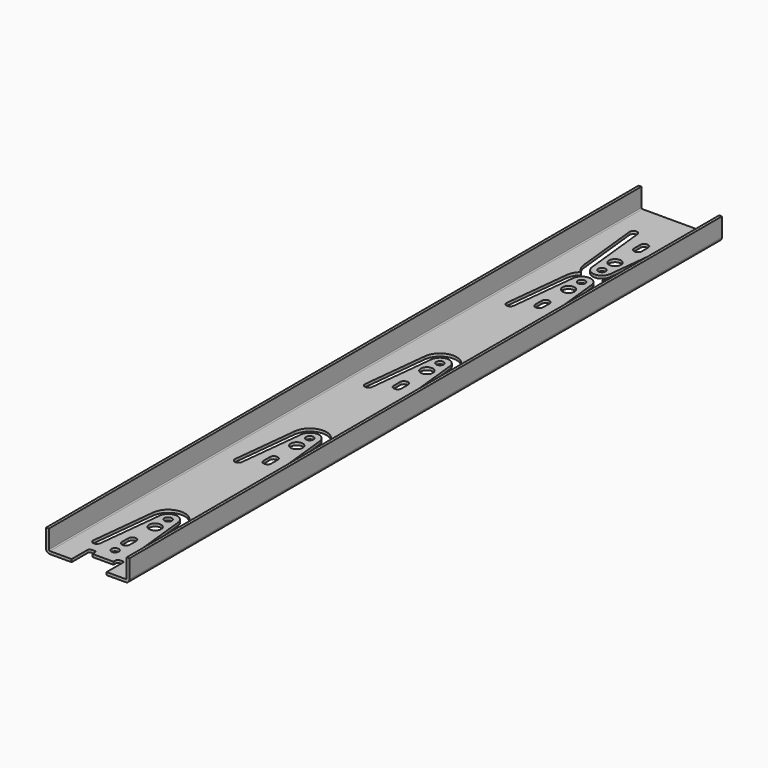
from build123d import *

# Parameters (mm, degrees)
F1_DEPTH = 200
F2_R     = 2
F3_DEPTH = 18.0006673893
F4_R     = 2
F4_R_2   = 3.25
F5_DEPTH = 25


with BuildPart() as f1:
    # F0 (on Front) → F1 (new body, symmetric)
    with BuildSketch(Plane.XZ):
        with BuildLine():
            Line((-46.5215308082, 17.9996673893), (-48.0148638964, 17.9996673893))
            Line((-48.0148638964, 17.9996673893), (-48.0148638964, 7.9996673893))
            ThreePointArc((-48.0148638964, 7.9996673893), (-47.4290774588, 6.5854538269), (-46.0148638964, 5.9996673893))
            Line((-46.0148638964, 5.9996673893), (-5.0148638964, 5.9996673893))
            ThreePointArc((-5.0148638964, 5.9996673893), (-3.600650334, 6.5854538269), (-3.0148638964, 7.9996673893))
            Line((-3.0148638964, 7.9996673893), (-3.0148638964, 17.9996673893))
            Line((-3.0148638964, 17.9996673893), (-4.5081969846, 17.9996673893))
            Line((-4.5081969846, 17.9996673893), (-4.5081969846, 7.9996673893))
            ThreePointArc((-4.5081969846, 7.9996673893), (-4.6565962873, 7.6413997802), (-5.0148638964, 7.4930004776))
            Line((-5.0148638964, 7.4930004776), (-46.0148638964, 7.4930004776))
            ThreePointArc((-46.0148638964, 7.4930004776), (-46.3731315055, 7.6413997802), (-46.5215308082, 7.9996673893))
            Line((-46.5215308082, 7.9996673893), (-46.5215308082, 17.9996673893))
        make_face()
    extrude(amount=F1_DEPTH, both=True)

    # F2 (on Top) → F3 (cut, through all)
    with BuildSketch(Plane.XY):
        with BuildLine():
            Line((-34.2383879185, -189.039892745), (-34.2383879185, -200.4795311213))
            Line((-34.2383879185, -200.4795311213), (-15.3136896849, -200.4795311213))
            Line((-15.3136896849, -200.4795311213), (-15.3136896849, -189.039892745))
            ThreePointArc((-15.3136896849, -189.039892745), (-15.6065829037, -188.3327859638), (-16.3136896849, -188.039892745))
            Line((-16.3136896849, -188.039892745), (-17.9719963819, -188.039892745))
            ThreePointArc((-17.9719963819, -188.039892745), (-18.6791031631, -188.3327859638), (-18.9719963819, -189.039892745))
            Line((-18.9719963819, -189.039892745), (-18.9719963819, -190.8018738031))
            Line((-18.9719963819, -190.8018738031), (-30.4109957069, -190.8018738031))
            Line((-30.4109957069, -190.8018738031), (-30.4109957069, -189.039892745))
            ThreePointArc((-30.4109957069, -189.039892745), (-30.7038889257, -188.3327859638), (-31.4109957069, -188.039892745))
            Line((-31.4109957069, -188.039892745), (-33.2383879185, -188.039892745))
            ThreePointArc((-33.2383879185, -188.039892745), (-33.9454946997, -188.3327859638), (-34.2383879185, -189.039892745))
        make_face()
        with Locations((-24.9614326939, -182.2309328079)):
            Circle(F2_R)
    extrude(amount=F3_DEPTH, mode=Mode.SUBTRACT)

    # F4 (on Top) → F5 (cut)
    with BuildSketch(Plane.XY):
        with BuildLine():
            ThreePointArc((-26.2534770622, 169.6344333588), (-25.6676906246, 168.2202197964), (-24.2534770622, 167.6344333588))
            Line((-24.2534770622, 167.6344333588), (-24.0468047514, 167.6344333588))
            ThreePointArc((-24.0468047514, 167.6344333588), (-22.632591189, 168.2202197964), (-22.0468047514, 169.6344333588))
            Line((-22.0468047514, 169.6344333588), (-22.0468047514, 174.0477779805))
            ThreePointArc((-22.0468047514, 174.0477779805), (-22.632591189, 175.4619915428), (-24.0468047514, 176.0477779805))
            Line((-24.0468047514, 176.0477779805), (-24.2534770622, 176.0477779805))
            ThreePointArc((-24.2534770622, 176.0477779805), (-25.6676906246, 175.4619915428), (-26.2534770622, 174.0477779805))
            Line((-26.2534770622, 174.0477779805), (-26.2534770622, 169.6344333588))
        make_face()
        with BuildLine():
            Line((-37.2235153974, 180.2821485832), (-33.4157298491, 144.8620035359))
            ThreePointArc((-33.4157298491, 144.8620035359), (-32.9844610819, 146.3307284934), (-31.6409626348, 147.0643208007))
            ThreePointArc((-31.6409626348, 147.0643208007), (-30.1722376773, 146.6330520334), (-29.43864537, 145.2895535864))
            Line((-29.43864537, 145.2895535864), (-33.2464309183, 180.7096986337))
            ThreePointArc((-33.2464309183, 180.7096986337), (-35.4487481831, 182.484465848), (-37.2235153974, 180.2821485832))
        make_face()
        with BuildLine():
            ThreePointArc((-33.4157298491, 144.8620035359), (-32.390620077, 141.5554039286), (-30.193204578, 138.880368203))
            ThreePointArc((-30.193204578, 138.880368203), (-29.3404601783, 139.5156525154), (-28.4187386584, 140.0459247177))
            ThreePointArc((-28.4187386584, 140.0459247177), (-29.8997966199, 141.4094844572), (-30.9315277438, 143.1381714551))
            ThreePointArc((-30.9315277438, 143.1381714551), (-32.5673953565, 143.4326333169), (-33.4157298491, 144.8620035359))
        make_face()
        with BuildLine():
            ThreePointArc((-30.9315277438, 143.1381714551), (-29.8997966199, 141.4094844572), (-28.4187386584, 140.0459247177))
            ThreePointArc((-28.4187386584, 140.0459247177), (-26.9880662325, 140.6129657347), (-25.4817038524, 140.9279760279))
            ThreePointArc((-25.4817038524, 140.9279760279), (-28.1704234935, 142.4644077477), (-29.43864537, 145.2895535864))
            ThreePointArc((-29.43864537, 145.2895535864), (-29.7840423653, 143.9355708142), (-30.9315277438, 143.1381714551))
        make_face()
        with BuildLine():
            ThreePointArc((-31.4271876096, 145.0757785612), (-31.2489146423, 144.0891816195), (-30.9315277438, 143.1381714551))
            ThreePointArc((-30.9315277438, 143.1381714551), (-29.7840423653, 143.9355708142), (-29.43864537, 145.2895535864))
            ThreePointArc((-29.43864537, 145.2895535864), (-30.1722376773, 146.6330520334), (-31.6409626348, 147.0643208007))
            Line((-31.6409626348, 147.0643208007), (-31.4271876096, 145.0757785612))
        make_face()
        with BuildLine():
            ThreePointArc((-31.6409626348, 147.0643208007), (-32.9844610819, 146.3307284934), (-33.4157298491, 144.8620035359))
            ThreePointArc((-33.4157298491, 144.8620035359), (-32.5673953565, 143.4326333169), (-30.9315277438, 143.1381714551))
            ThreePointArc((-30.9315277438, 143.1381714551), (-31.2489146423, 144.0891816195), (-31.4271876096, 145.0757785612))
            Line((-31.4271876096, 145.0757785612), (-31.6409626348, 147.0643208007))
        make_face()
        with Locations((-24.4672897711, 145.8239911496)):
            Circle(F4_R)
        with BuildLine():
            ThreePointArc((-17.2936169073, 147.0643208007), (-18.7623418648, 146.6330520334), (-19.4959341721, 145.2895535864))
            ThreePointArc((-19.4959341721, 145.2895535864), (-19.1505371768, 143.9355708142), (-18.0030517983, 143.1381714551))
            ThreePointArc((-18.0030517983, 143.1381714551), (-17.6856648998, 144.0891816195), (-17.5073919325, 145.0757785612))
            Line((-17.5073919325, 145.0757785612), (-17.2936169073, 147.0643208007))
        make_face()
        with BuildLine():
            ThreePointArc((-18.0030517983, 143.1381714551), (-16.3671841856, 143.4326333169), (-15.518849693, 144.8620035359))
            ThreePointArc((-15.518849693, 144.8620035359), (-15.9501184603, 146.3307284934), (-17.2936169073, 147.0643208007))
            Line((-17.2936169073, 147.0643208007), (-17.5073919325, 145.0757785612))
            ThreePointArc((-17.5073919325, 145.0757785612), (-17.6856648998, 144.0891816195), (-18.0030517983, 143.1381714551))
        make_face()
        with BuildLine():
            ThreePointArc((-17.2936169073, 147.0643208007), (-15.9501184603, 146.3307284934), (-15.518849693, 144.8620035359))
            Line((-15.518849693, 144.8620035359), (-11.7110641447, 180.2821485832))
            ThreePointArc((-11.7110641447, 180.2821485832), (-13.485831359, 182.484465848), (-15.6881486238, 180.7096986337))
            Line((-15.6881486238, 180.7096986337), (-19.4959341721, 145.2895535864))
            ThreePointArc((-19.4959341721, 145.2895535864), (-18.7623418648, 146.6330520334), (-17.2936169073, 147.0643208007))
        make_face()
        with Locations((-24.4251641884, 154.6007899939)):
            Circle(F4_R_2)
        with BuildLine():
            ThreePointArc((-19.4959341721, 145.2895535864), (-20.7477104181, 142.4826247468), (-23.4048617705, 140.9381701598))
            ThreePointArc((-23.4048617705, 140.9381701598), (-21.8954796075, 140.6379625799), (-20.4593096372, 140.0849933933))
            ThreePointArc((-20.4593096372, 140.0849933933), (-19.0131801198, 141.4362026505), (-18.0030517983, 143.1381714551))
            ThreePointArc((-18.0030517983, 143.1381714551), (-19.1505371768, 143.9355708142), (-19.4959341721, 145.2895535864))
        make_face()
        with BuildLine():
            ThreePointArc((-20.4593096372, 140.0849933933), (-19.5324269979, 139.5637950223), (-18.673487281, 138.9369124723))
            ThreePointArc((-18.673487281, 138.9369124723), (-16.5231029019, 141.5943463669), (-15.518849693, 144.8620035359))
            ThreePointArc((-15.518849693, 144.8620035359), (-16.3671841856, 143.4326333169), (-18.0030517983, 143.1381714551))
            ThreePointArc((-18.0030517983, 143.1381714551), (-19.0131801198, 141.4362026505), (-20.4593096372, 140.0849933933))
        make_face()
        with BuildLine():
            ThreePointArc((-25.4817038524, 140.9279760279), (-26.9880662325, 140.6129657347), (-28.4187386584, 140.0459247177))
            ThreePointArc((-28.4187386584, 140.0459247177), (-27.0328495421, 139.3110883358), (-25.5181236085, 138.9033157312))
            ThreePointArc((-25.5181236085, 138.9033157312), (-24.4337610142, 138.9932052013), (-23.3485682505, 138.9139649441))
            ThreePointArc((-23.3485682505, 138.9139649441), (-21.8379182928, 139.3365875372), (-20.4593096372, 140.0849933933))
            ThreePointArc((-20.4593096372, 140.0849933933), (-21.8954796075, 140.6379625799), (-23.4048617705, 140.9381701598))
            ThreePointArc((-23.4048617705, 140.9381701598), (-24.4427476809, 140.8240513813), (-25.4817038524, 140.9279760279))
        make_face()
        with BuildLine():
            ThreePointArc((-28.4187386584, 140.0459247177), (-29.3404601783, 139.5156525154), (-30.193204578, 138.880368203))
            ThreePointArc((-30.193204578, 138.880368203), (-29.3342648611, 138.253485653), (-28.4073822218, 137.7322872821))
            ThreePointArc((-28.4073822218, 137.7322872821), (-27.0287735662, 138.4806931381), (-25.5181236085, 138.9033157312))
            ThreePointArc((-25.5181236085, 138.9033157312), (-27.0328495421, 139.3110883358), (-28.4187386584, 140.0459247177))
        make_face()
        with BuildLine():
            ThreePointArc((-28.4073822218, 137.7322872821), (-26.9712122515, 137.1793180955), (-25.4618300885, 136.8791105155))
            ThreePointArc((-25.4618300885, 136.8791105155), (-24.4239441781, 136.993229294), (-23.3849880066, 136.8893046475))
            ThreePointArc((-23.3849880066, 136.8893046475), (-21.8786256265, 137.2043149406), (-20.4479532006, 137.7713559577))
            ThreePointArc((-20.4479532006, 137.7713559577), (-21.8338423169, 138.5061923396), (-23.3485682505, 138.9139649441))
            ThreePointArc((-23.3485682505, 138.9139649441), (-24.4329308448, 138.8240754741), (-25.5181236085, 138.9033157312))
            ThreePointArc((-25.5181236085, 138.9033157312), (-27.0287735662, 138.4806931381), (-28.4073822218, 137.7322872821))
        make_face()
        with BuildLine():
            ThreePointArc((-23.3485682505, 138.9139649441), (-21.8338423169, 138.5061923396), (-20.4479532006, 137.7713559577))
            ThreePointArc((-20.4479532006, 137.7713559577), (-19.5262316807, 138.3016281599), (-18.673487281, 138.9369124723))
            ThreePointArc((-18.673487281, 138.9369124723), (-19.5324269979, 139.5637950223), (-20.4593096372, 140.0849933933))
            ThreePointArc((-20.4593096372, 140.0849933933), (-21.8379182928, 139.3365875372), (-23.3485682505, 138.9139649441))
        make_face()
        with BuildLine():
            ThreePointArc((-30.8636400607, 134.6791092203), (-29.7161546822, 133.8817098612), (-29.3707576869, 132.5277270889))
            ThreePointArc((-29.3707576869, 132.5277270889), (-28.1189814409, 135.3346559285), (-25.4618300885, 136.8791105155))
            ThreePointArc((-25.4618300885, 136.8791105155), (-26.9712122515, 137.1793180955), (-28.4073822218, 137.7322872821))
            ThreePointArc((-28.4073822218, 137.7322872821), (-29.8535117392, 136.3810780248), (-30.8636400607, 134.6791092203))
        make_face()
        with BuildLine():
            ThreePointArc((-30.193204578, 138.880368203), (-32.3435889571, 136.2229343085), (-33.347842166, 132.9552771395))
            ThreePointArc((-33.347842166, 132.9552771395), (-32.4995076734, 134.3846473585), (-30.8636400607, 134.6791092203))
            ThreePointArc((-30.8636400607, 134.6791092203), (-29.8535117392, 136.3810780248), (-28.4073822218, 137.7322872821))
            ThreePointArc((-28.4073822218, 137.7322872821), (-29.3342648611, 138.253485653), (-30.193204578, 138.880368203))
        make_face()
        with BuildLine():
            ThreePointArc((-20.4479532006, 137.7713559577), (-21.8786256265, 137.2043149406), (-23.3849880066, 136.8893046475))
            ThreePointArc((-23.3849880066, 136.8893046475), (-20.6962683655, 135.3528729276), (-19.428046489, 132.5277270889))
            ThreePointArc((-19.428046489, 132.5277270889), (-19.0826494937, 133.8817098612), (-17.9351641151, 134.6791092203))
            ThreePointArc((-17.9351641151, 134.6791092203), (-18.9668952391, 136.4077962182), (-20.4479532006, 137.7713559577))
        make_face()
        with BuildLine():
            ThreePointArc((-18.673487281, 138.9369124723), (-19.5262316807, 138.3016281599), (-20.4479532006, 137.7713559577))
            ThreePointArc((-20.4479532006, 137.7713559577), (-18.9668952391, 136.4077962182), (-17.9351641151, 134.6791092203))
            ThreePointArc((-17.9351641151, 134.6791092203), (-16.2992965024, 134.3846473585), (-15.4509620098, 132.9552771395))
            ThreePointArc((-15.4509620098, 132.9552771395), (-16.476071782, 136.2618767468), (-18.673487281, 138.9369124723))
        make_face()
        with BuildLine():
            ThreePointArc((-23.3485682505, 138.9139649441), (-24.4337610142, 138.9932052013), (-25.5181236085, 138.9033157312))
            ThreePointArc((-25.5181236085, 138.9033157312), (-24.4329308448, 138.8240754741), (-23.3485682505, 138.9139649441))
        make_face()
        with BuildLine():
            ThreePointArc((-17.9351641151, 134.6791092203), (-19.0826494937, 133.8817098612), (-19.428046489, 132.5277270889))
            ThreePointArc((-19.428046489, 132.5277270889), (-18.6944541817, 131.1842286419), (-17.2257292242, 130.7529598746))
            Line((-17.2257292242, 130.7529598746), (-17.4395042494, 132.7415021142))
            ThreePointArc((-17.4395042494, 132.7415021142), (-17.6177772167, 133.7280990559), (-17.9351641151, 134.6791092203))
        make_face()
        with BuildLine():
            Line((-17.4395042494, 132.7415021142), (-17.2257292242, 130.7529598746))
            ThreePointArc((-17.2257292242, 130.7529598746), (-15.8822307771, 131.4865521819), (-15.4509620098, 132.9552771395))
            ThreePointArc((-15.4509620098, 132.9552771395), (-16.2992965024, 134.3846473585), (-17.9351641151, 134.6791092203))
            ThreePointArc((-17.9351641151, 134.6791092203), (-17.6177772167, 133.7280990559), (-17.4395042494, 132.7415021142))
        make_face()
        with BuildLine():
            ThreePointArc((-17.2257292242, 130.7529598746), (-18.6944541817, 131.1842286419), (-19.428046489, 132.5277270889))
            Line((-19.428046489, 132.5277270889), (-15.6202609407, 97.1075820417))
            ThreePointArc((-15.6202609407, 97.1075820417), (-13.4179436759, 95.3328148274), (-11.6431764615, 97.5351320922))
            Line((-11.6431764615, 97.5351320922), (-15.4509620098, 132.9552771395))
            ThreePointArc((-15.4509620098, 132.9552771395), (-15.8822307771, 131.4865521819), (-17.2257292242, 130.7529598746))
        make_face()
        with Locations((-24.4415276706, 123.2164906815)):
            Circle(F4_R_2)
        with Locations((-24.3994020879, 131.9932895258)):
            Circle(F4_R)
        with BuildLine():
            ThreePointArc((-33.347842166, 132.9552771395), (-32.9165733987, 131.4865521819), (-31.5730749517, 130.7529598746))
            Line((-31.5730749517, 130.7529598746), (-31.3592999264, 132.7415021142))
            ThreePointArc((-31.3592999264, 132.7415021142), (-31.1810269592, 133.7280990559), (-30.8636400607, 134.6791092203))
            ThreePointArc((-30.8636400607, 134.6791092203), (-32.4995076734, 134.3846473585), (-33.347842166, 132.9552771395))
        make_face()
        with BuildLine():
            Line((-31.3592999264, 132.7415021142), (-31.5730749517, 130.7529598746))
            ThreePointArc((-31.5730749517, 130.7529598746), (-30.1043499942, 131.1842286419), (-29.3707576869, 132.5277270889))
            ThreePointArc((-29.3707576869, 132.5277270889), (-29.7161546822, 133.8817098612), (-30.8636400607, 134.6791092203))
            ThreePointArc((-30.8636400607, 134.6791092203), (-31.1810269592, 133.7280990559), (-31.3592999264, 132.7415021142))
        make_face()
        with BuildLine():
            ThreePointArc((-29.3707576869, 132.5277270889), (-30.1043499942, 131.1842286419), (-31.5730749517, 130.7529598746))
            ThreePointArc((-31.5730749517, 130.7529598746), (-32.9165733987, 131.4865521819), (-33.347842166, 132.9552771395))
            Line((-33.347842166, 132.9552771395), (-37.1556277143, 97.5351320922))
            ThreePointArc((-37.1556277143, 97.5351320922), (-35.3808605, 95.3328148274), (-33.1785432352, 97.1075820417))
            Line((-33.1785432352, 97.1075820417), (-29.3707576869, 132.5277270889))
        make_face()
        with BuildLine():
            ThreePointArc((-22.6132147968, 108.1828473166), (-23.1990012344, 109.5970608789), (-24.6132147968, 110.1828473166))
            Line((-24.6132147968, 110.1828473166), (-24.8198871076, 110.1828473166))
            ThreePointArc((-24.8198871076, 110.1828473166), (-26.23410067, 109.5970608789), (-26.8198871076, 108.1828473166))
            Line((-26.8198871076, 108.1828473166), (-26.8198871076, 103.7695026949))
            ThreePointArc((-26.8198871076, 103.7695026949), (-26.23410067, 102.3552891325), (-24.8198871076, 101.7695026949))
            Line((-24.8198871076, 101.7695026949), (-24.6132147968, 101.7695026949))
            ThreePointArc((-24.6132147968, 101.7695026949), (-23.1990012344, 102.3552891325), (-22.6132147968, 103.7695026949))
            Line((-22.6132147968, 103.7695026949), (-22.6132147968, 108.1828473166))
        make_face()
        with BuildLine():
            ThreePointArc((-29.6614746409, 37.2760824567), (-30.3950669482, 35.9325840097), (-31.8637919058, 35.5013152424))
            ThreePointArc((-31.8637919058, 35.5013152424), (-33.2072903528, 36.2349075497), (-33.6385591201, 37.7036325072))
            Line((-33.6385591201, 37.7036325072), (-37.4463446684, 2.28348746))
            ThreePointArc((-37.4463446684, 2.28348746), (-35.6715774541, 0.0811701951), (-33.4692601892, 1.8559374095))
            Line((-33.4692601892, 1.8559374095), (-29.6614746409, 37.2760824567))
        make_face()
        with BuildLine():
            ThreePointArc((-22.9039317509, 12.9312026843), (-23.4897181885, 14.3454162467), (-24.9039317509, 14.9312026843))
            Line((-24.9039317509, 14.9312026843), (-25.1106040617, 14.9312026843))
            ThreePointArc((-25.1106040617, 14.9312026843), (-26.5248176241, 14.3454162467), (-27.1106040617, 12.9312026843))
            Line((-27.1106040617, 12.9312026843), (-27.1106040617, 8.5178580627))
            ThreePointArc((-27.1106040617, 8.5178580627), (-26.5248176241, 7.1036445003), (-25.1106040617, 6.5178580627))
            Line((-25.1106040617, 6.5178580627), (-24.9039317509, 6.5178580627))
            ThreePointArc((-24.9039317509, 6.5178580627), (-23.4897181885, 7.1036445003), (-22.9039317509, 8.5178580627))
            Line((-22.9039317509, 8.5178580627), (-22.9039317509, 12.9312026843))
        make_face()
        with BuildLine():
            ThreePointArc((-17.5164461782, 35.5013152424), (-18.9851711358, 35.9325840097), (-19.7187634431, 37.2760824567))
            Line((-19.7187634431, 37.2760824567), (-15.9109778948, 1.8559374095))
            ThreePointArc((-15.9109778948, 1.8559374095), (-13.7086606299, 0.0811701951), (-11.9338934156, 2.28348746))
            Line((-11.9338934156, 2.28348746), (-15.7416789639, 37.7036325072))
            ThreePointArc((-15.7416789639, 37.7036325072), (-16.1729477312, 36.2349075497), (-17.5164461782, 35.5013152424))
        make_face()
        with Locations((-24.7322446247, 27.9648460492)):
            Circle(F4_R_2)
        with Locations((-24.690119042, 36.7416448936)):
            Circle(F4_R)
        with BuildLine():
            ThreePointArc((-31.1543570148, 39.4274645881), (-30.0068716362, 38.6300652289), (-29.6614746409, 37.2760824567))
            ThreePointArc((-29.6614746409, 37.2760824567), (-24.690119042, 41.7416448936), (-19.7187634431, 37.2760824567))
            ThreePointArc((-19.7187634431, 37.2760824567), (-19.3733664477, 38.6300652289), (-18.2258810692, 39.4274645881))
            ThreePointArc((-18.2258810692, 39.4274645881), (-24.690119042, 43.7416448936), (-31.1543570148, 39.4274645881))
        make_face()
        with BuildLine():
            ThreePointArc((-15.7416789639, 37.7036325072), (-24.690119042, 45.7416448936), (-33.6385591201, 37.7036325072))
            ThreePointArc((-33.6385591201, 37.7036325072), (-32.7902246275, 39.1330027262), (-31.1543570148, 39.4274645881))
            ThreePointArc((-31.1543570148, 39.4274645881), (-24.690119042, 43.7416448936), (-18.2258810692, 39.4274645881))
            ThreePointArc((-18.2258810692, 39.4274645881), (-16.5900134565, 39.1330027262), (-15.7416789639, 37.7036325072))
        make_face()
        with BuildLine():
            ThreePointArc((-18.2258810692, 39.4274645881), (-19.3733664477, 38.6300652289), (-19.7187634431, 37.2760824567))
            ThreePointArc((-19.7187634431, 37.2760824567), (-18.9851711358, 35.9325840097), (-17.5164461782, 35.5013152424))
            Line((-17.5164461782, 35.5013152424), (-17.7302212035, 37.489857482))
            ThreePointArc((-17.7302212035, 37.489857482), (-17.9084941707, 38.4764544236), (-18.2258810692, 39.4274645881))
        make_face()
        with BuildLine():
            ThreePointArc((-17.5164461782, 35.5013152424), (-16.1729477312, 36.2349075497), (-15.7416789639, 37.7036325072))
            ThreePointArc((-15.7416789639, 37.7036325072), (-16.5900134565, 39.1330027262), (-18.2258810692, 39.4274645881))
            ThreePointArc((-18.2258810692, 39.4274645881), (-17.9084941707, 38.4764544236), (-17.7302212035, 37.489857482))
            Line((-17.7302212035, 37.489857482), (-17.5164461782, 35.5013152424))
        make_face()
        with BuildLine():
            ThreePointArc((-33.6385591201, 37.7036325072), (-33.2072903528, 36.2349075497), (-31.8637919058, 35.5013152424))
            Line((-31.8637919058, 35.5013152424), (-31.6500168805, 37.489857482))
            ThreePointArc((-31.6500168805, 37.489857482), (-31.4717439133, 38.4764544236), (-31.1543570148, 39.4274645881))
            ThreePointArc((-31.1543570148, 39.4274645881), (-32.7902246275, 39.1330027262), (-33.6385591201, 37.7036325072))
        make_face()
        with BuildLine():
            Line((-31.6500168805, 37.489857482), (-31.8637919058, 35.5013152424))
            ThreePointArc((-31.8637919058, 35.5013152424), (-30.3950669482, 35.9325840097), (-29.6614746409, 37.2760824567))
            ThreePointArc((-29.6614746409, 37.2760824567), (-30.0068716362, 38.6300652289), (-31.1543570148, 39.4274645881))
            ThreePointArc((-31.1543570148, 39.4274645881), (-31.4717439133, 38.4764544236), (-31.6500168805, 37.489857482))
        make_face()
        with BuildLine():
            ThreePointArc((-29.7180183985, -50.4993391523), (-30.4516107058, -51.8428375993), (-31.9203356633, -52.2741063666))
            ThreePointArc((-31.9203356633, -52.2741063666), (-33.2638341103, -51.5405140593), (-33.6951028776, -50.0717891018))
            Line((-33.6951028776, -50.0717891018), (-37.5028884259, -85.491934149))
            ThreePointArc((-37.5028884259, -85.491934149), (-35.7281212116, -87.6942514139), (-33.5258039467, -85.9194841995))
            Line((-33.5258039467, -85.9194841995), (-29.7180183985, -50.4993391523))
        make_face()
        with BuildLine():
            ThreePointArc((-17.5729899357, -52.2741063666), (-19.0417148933, -51.8428375993), (-19.7753072006, -50.4993391523))
            Line((-19.7753072006, -50.4993391523), (-15.9675216523, -85.9194841995))
            ThreePointArc((-15.9675216523, -85.9194841995), (-13.7652043875, -87.6942514139), (-11.9904371731, -85.491934149))
            Line((-11.9904371731, -85.491934149), (-15.7982227214, -50.0717891018))
            ThreePointArc((-15.7982227214, -50.0717891018), (-16.2294914887, -51.5405140593), (-17.5729899357, -52.2741063666))
        make_face()
        with BuildLine():
            ThreePointArc((-22.9604755084, -74.8442189246), (-23.546261946, -73.4300053623), (-24.9604755084, -72.8442189246))
            Line((-24.9604755084, -72.8442189246), (-25.1671478192, -72.8442189246))
            ThreePointArc((-25.1671478192, -72.8442189246), (-26.5813613816, -73.4300053623), (-27.1671478192, -74.8442189246))
            Line((-27.1671478192, -74.8442189246), (-27.1671478192, -79.2575635463))
            ThreePointArc((-27.1671478192, -79.2575635463), (-26.5813613816, -80.6717771087), (-25.1671478192, -81.2575635463))
            Line((-25.1671478192, -81.2575635463), (-24.9604755084, -81.2575635463))
            ThreePointArc((-24.9604755084, -81.2575635463), (-23.546261946, -80.6717771087), (-22.9604755084, -79.2575635463))
            Line((-22.9604755084, -79.2575635463), (-22.9604755084, -74.8442189246))
        make_face()
        with Locations((-24.7887883822, -59.8105755597)):
            Circle(F4_R_2)
        with Locations((-24.7466627995, -51.0337767154)):
            Circle(F4_R)
        with BuildLine():
            ThreePointArc((-31.2109007723, -48.3479570209), (-30.0634153938, -49.14535638), (-29.7180183985, -50.4993391523))
            ThreePointArc((-29.7180183985, -50.4993391523), (-24.7466627995, -46.0337767154), (-19.7753072006, -50.4993391523))
            ThreePointArc((-19.7753072006, -50.4993391523), (-19.4299102053, -49.14535638), (-18.2824248267, -48.3479570209))
            ThreePointArc((-18.2824248267, -48.3479570209), (-24.7466627995, -44.0337767154), (-31.2109007723, -48.3479570209))
        make_face()
        with BuildLine():
            ThreePointArc((-15.7982227214, -50.0717891018), (-24.7466627995, -42.0337767154), (-33.6951028776, -50.0717891018))
            ThreePointArc((-33.6951028776, -50.0717891018), (-32.846768385, -48.6424188827), (-31.2109007723, -48.3479570209))
            ThreePointArc((-31.2109007723, -48.3479570209), (-24.7466627995, -44.0337767154), (-18.2824248267, -48.3479570209))
            ThreePointArc((-18.2824248267, -48.3479570209), (-16.646557214, -48.6424188827), (-15.7982227214, -50.0717891018))
        make_face()
        with BuildLine():
            ThreePointArc((-18.2824248267, -48.3479570209), (-19.4299102053, -49.14535638), (-19.7753072006, -50.4993391523))
            ThreePointArc((-19.7753072006, -50.4993391523), (-19.0417148933, -51.8428375993), (-17.5729899357, -52.2741063666))
            Line((-17.5729899357, -52.2741063666), (-17.786764961, -50.285564127))
            ThreePointArc((-17.786764961, -50.285564127), (-17.9650379283, -49.2989671853), (-18.2824248267, -48.3479570209))
        make_face()
        with BuildLine():
            ThreePointArc((-17.5729899357, -52.2741063666), (-16.2294914887, -51.5405140593), (-15.7982227214, -50.0717891018))
            ThreePointArc((-15.7982227214, -50.0717891018), (-16.646557214, -48.6424188827), (-18.2824248267, -48.3479570209))
            ThreePointArc((-18.2824248267, -48.3479570209), (-17.9650379283, -49.2989671853), (-17.786764961, -50.285564127))
            Line((-17.786764961, -50.285564127), (-17.5729899357, -52.2741063666))
        make_face()
        with BuildLine():
            Line((-31.706560638, -50.285564127), (-31.9203356633, -52.2741063666))
            ThreePointArc((-31.9203356633, -52.2741063666), (-30.4516107058, -51.8428375993), (-29.7180183985, -50.4993391523))
            ThreePointArc((-29.7180183985, -50.4993391523), (-30.0634153938, -49.14535638), (-31.2109007723, -48.3479570209))
            ThreePointArc((-31.2109007723, -48.3479570209), (-31.5282876708, -49.2989671853), (-31.706560638, -50.285564127))
        make_face()
        with BuildLine():
            ThreePointArc((-33.6951028776, -50.0717891018), (-33.2638341103, -51.5405140593), (-31.9203356633, -52.2741063666))
            Line((-31.9203356633, -52.2741063666), (-31.706560638, -50.285564127))
            ThreePointArc((-31.706560638, -50.285564127), (-31.5282876708, -49.2989671853), (-31.2109007723, -48.3479570209))
            ThreePointArc((-31.2109007723, -48.3479570209), (-32.846768385, -48.6424188827), (-33.6951028776, -50.0717891018))
        make_face()
        with BuildLine():
            ThreePointArc((-17.8637068898, -147.5257509988), (-19.3324318473, -147.0944822315), (-20.0660241547, -145.7509837845))
            Line((-20.0660241547, -145.7509837845), (-16.2582386064, -181.1711288318))
            ThreePointArc((-16.2582386064, -181.1711288318), (-14.0559213415, -182.9458960461), (-12.2811541272, -180.7435787812))
            Line((-12.2811541272, -180.7435787812), (-16.0889396755, -145.323433734))
            ThreePointArc((-16.0889396755, -145.323433734), (-16.5202084428, -146.7921586915), (-17.8637068898, -147.5257509988))
        make_face()
        with BuildLine():
            ThreePointArc((-30.0087353525, -145.7509837845), (-30.7423276598, -147.0944822315), (-32.2110526174, -147.5257509988))
            ThreePointArc((-32.2110526174, -147.5257509988), (-33.5545510644, -146.7921586915), (-33.9858198317, -145.323433734))
            Line((-33.9858198317, -145.323433734), (-37.79360538, -180.7435787812))
            ThreePointArc((-37.79360538, -180.7435787812), (-36.0188381656, -182.9458960461), (-33.8165209008, -181.1711288318))
            Line((-33.8165209008, -181.1711288318), (-30.0087353525, -145.7509837845))
        make_face()
        with BuildLine():
            ThreePointArc((-23.2511924624, -170.0958635569), (-23.8369789001, -168.6816499945), (-25.2511924624, -168.0958635569))
            Line((-25.2511924624, -168.0958635569), (-25.4578647733, -168.0958635569))
            ThreePointArc((-25.4578647733, -168.0958635569), (-26.8720783356, -168.6816499945), (-27.4578647733, -170.0958635569))
            Line((-27.4578647733, -170.0958635569), (-27.4578647733, -174.5092081785))
            ThreePointArc((-27.4578647733, -174.5092081785), (-26.8720783356, -175.9234217409), (-25.4578647733, -176.5092081785))
            Line((-25.4578647733, -176.5092081785), (-25.2511924624, -176.5092081785))
            ThreePointArc((-25.2511924624, -176.5092081785), (-23.8369789001, -175.9234217409), (-23.2511924624, -174.5092081785))
            Line((-23.2511924624, -174.5092081785), (-23.2511924624, -170.0958635569))
        make_face()
        with Locations((-25.0795053363, -155.062220192)):
            Circle(F4_R_2)
        with Locations((-25.0373797536, -146.2854213476)):
            Circle(F4_R)
        with BuildLine():
            ThreePointArc((-33.9858198317, -145.323433734), (-33.5545510644, -146.7921586915), (-32.2110526174, -147.5257509988))
            Line((-32.2110526174, -147.5257509988), (-31.9972775921, -145.5372087592))
            ThreePointArc((-31.9972775921, -145.5372087592), (-31.8190046248, -144.5506118176), (-31.5016177264, -143.5996016532))
            ThreePointArc((-31.5016177264, -143.5996016532), (-33.1374853391, -143.894063515), (-33.9858198317, -145.323433734))
        make_face()
        with BuildLine():
            Line((-31.9972775921, -145.5372087592), (-32.2110526174, -147.5257509988))
            ThreePointArc((-32.2110526174, -147.5257509988), (-30.7423276598, -147.0944822315), (-30.0087353525, -145.7509837845))
            ThreePointArc((-30.0087353525, -145.7509837845), (-30.3541323478, -144.3970010123), (-31.5016177264, -143.5996016532))
            ThreePointArc((-31.5016177264, -143.5996016532), (-31.8190046248, -144.5506118176), (-31.9972775921, -145.5372087592))
        make_face()
        with BuildLine():
            ThreePointArc((-18.5731417808, -143.5996016532), (-19.7206271593, -144.3970010123), (-20.0660241547, -145.7509837845))
            ThreePointArc((-20.0660241547, -145.7509837845), (-19.3324318473, -147.0944822315), (-17.8637068898, -147.5257509988))
            Line((-17.8637068898, -147.5257509988), (-18.0774819151, -145.5372087592))
            ThreePointArc((-18.0774819151, -145.5372087592), (-18.2557548823, -144.5506118176), (-18.5731417808, -143.5996016532))
        make_face()
        with BuildLine():
            ThreePointArc((-17.8637068898, -147.5257509988), (-16.5202084428, -146.7921586915), (-16.0889396755, -145.323433734))
            ThreePointArc((-16.0889396755, -145.323433734), (-16.9372741681, -143.894063515), (-18.5731417808, -143.5996016532))
            ThreePointArc((-18.5731417808, -143.5996016532), (-18.2557548823, -144.5506118176), (-18.0774819151, -145.5372087592))
            Line((-18.0774819151, -145.5372087592), (-17.8637068898, -147.5257509988))
        make_face()
        with BuildLine():
            ThreePointArc((-31.5016177264, -143.5996016532), (-30.3541323478, -144.3970010123), (-30.0087353525, -145.7509837845))
            ThreePointArc((-30.0087353525, -145.7509837845), (-25.0373797536, -141.2854213476), (-20.0660241547, -145.7509837845))
            ThreePointArc((-20.0660241547, -145.7509837845), (-19.7206271593, -144.3970010123), (-18.5731417808, -143.5996016532))
            ThreePointArc((-18.5731417808, -143.5996016532), (-25.0373797536, -139.2854213476), (-31.5016177264, -143.5996016532))
        make_face()
        with BuildLine():
            ThreePointArc((-16.0889396755, -145.323433734), (-25.0373797536, -137.2854213476), (-33.9858198317, -145.323433734))
            ThreePointArc((-33.9858198317, -145.323433734), (-33.1374853391, -143.894063515), (-31.5016177264, -143.5996016532))
            ThreePointArc((-31.5016177264, -143.5996016532), (-25.0373797536, -139.2854213476), (-18.5731417808, -143.5996016532))
            ThreePointArc((-18.5731417808, -143.5996016532), (-16.9372741681, -143.894063515), (-16.0889396755, -145.323433734))
        make_face()
    extrude(amount=F5_DEPTH, mode=Mode.SUBTRACT)


solid = f1.part
